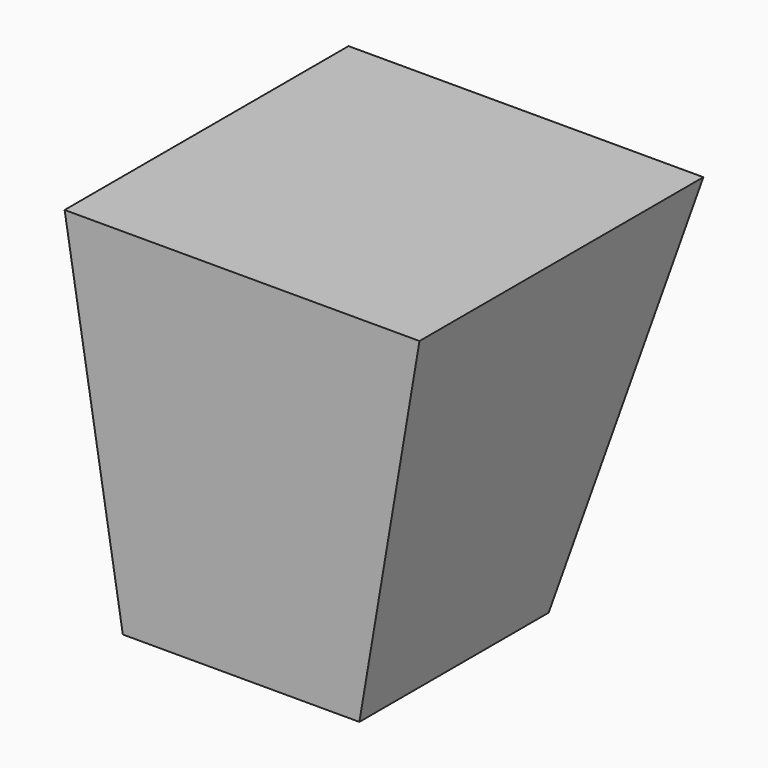
from build123d import *

# Parameters (mm, degrees)
F0_W = 10
F0_H = 10
F2_W = 15
F2_H = 15


with BuildPart() as f3:
    # F0 (on Top) → F3 section 0
    with BuildSketch(Plane.XY):
        with Locations((-5, 5)):
            Rectangle(F0_W, F0_H)
    # F2 (on offset) → F3 section 1
    with BuildSketch(Plane.XY.offset(15)):
        with Locations((-4.960002, 7.5)):
            Rectangle(F2_W, F2_H)
    loft()


solid = f3.part
